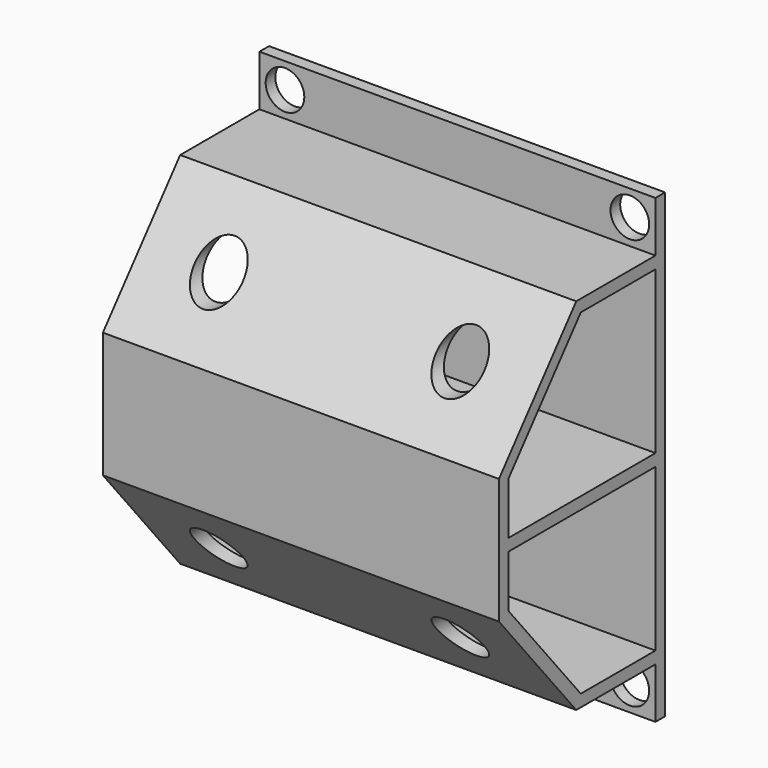
from build123d import *

# Parameters (mm, degrees)
F1_DEPTH      = 52.07
F1_DEPTH_BACK = 52.07
F2_W          = 48.26
F2_H          = 3.175
F3_DEPTH      = 104.14
F4_W          = 104.14
F4_H          = 13.335
F5_DEPTH      = 3.175
F6_R          = 5.08
F7_DEPTH      = 3.175
F8_R          = 6.35
F9_DEPTH      = 51.435


with BuildPart() as f1:
    # F0 (on Right) → F1 (new body, two sides)
    with BuildSketch(Plane.YZ) as f1_sk:
        Polygon((29.21, 0), (29.21, 47.3075), (0, 47.3075), (-25.4, 16.51), (-25.4, 0), (-25.4, -16.51), (0, -47.3075), (29.21, -47.3075), align=None)
        Polygon((-22.225, 0), (-22.225, 3.175), (-22.225, 15.369625), (1.496958, 44.1325), (26.035, 44.1325), (26.035, 3.175), (26.035, 0), (26.035, -3.175), (26.035, -44.1325), (1.496958, -44.1325), (-22.225, -15.369625), (-22.225, -3.175), align=None, mode=Mode.SUBTRACT)
    extrude(amount=F1_DEPTH)
    extrude(f1_sk.sketch, amount=-F1_DEPTH_BACK)

    # F2 (on face) → F3 (join, through all)
    with BuildSketch(Plane.YZ.offset(52.07)):
        with Locations((1.905, 0)):
            Rectangle(F2_W, F2_H)
    extrude(amount=-F3_DEPTH)

    # F4 (on face) → F5 (join)
    with BuildSketch(Plane(origin=(0, 29.21, 0), x_dir=(-1, 0, 0), z_dir=(0, 1, 0))):
        with Locations((0, 53.975)):
            Rectangle(F4_W, F4_H)
        with Locations((0, -53.975)):
            Rectangle(F4_W, F4_H)
    extrude(amount=-F5_DEPTH)

    # F6 (on face) → F7 (cut, through all)
    with BuildSketch(Plane.XZ.offset(-26.035)):
        with Locations((-45.339, 53.975)):
            Circle(F6_R)
        with Locations((45.339, 53.975)):
            Circle(F6_R)
        with Locations((45.339, -53.975)):
            Circle(F6_R)
        with Locations((-45.339, -53.975)):
            Circle(F6_R)
    extrude(amount=-F7_DEPTH, mode=Mode.SUBTRACT)

    # F8 (on face) → F9 (cut, through all)
    with BuildSketch(Plane.XZ.offset(25.4)):
        with Locations((-31.75, 31.90875)):
            Circle(F8_R)
        with Locations((31.75, 31.90875)):
            Circle(F8_R)
        with Locations((31.75, -31.90875)):
            Circle(F8_R)
        with Locations((-31.75, -31.90875)):
            Circle(F8_R)
    extrude(amount=-F9_DEPTH, mode=Mode.SUBTRACT)


solid = f1.part
